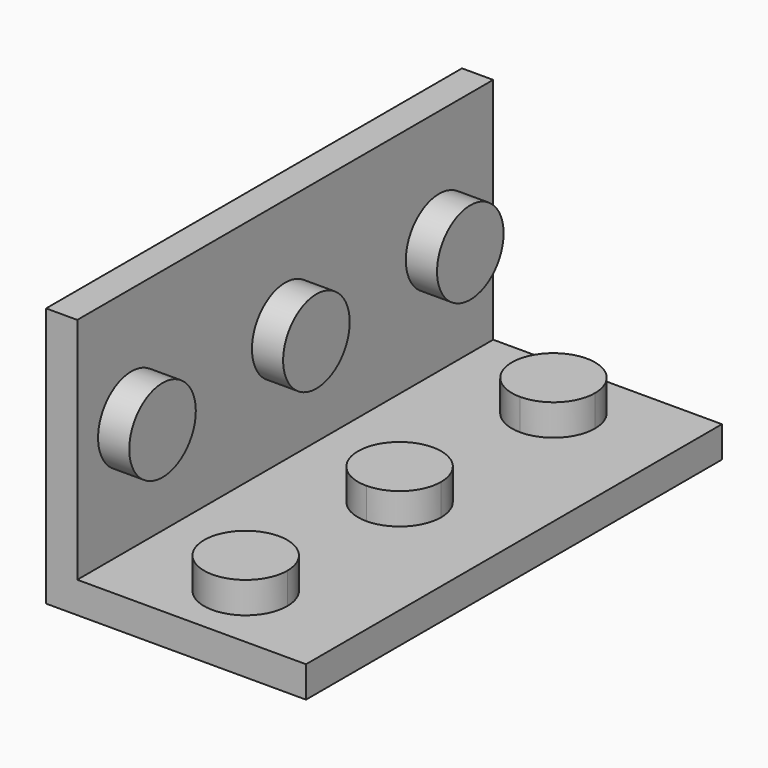
from build123d import *

# Parameters (mm, degrees)
F2_DEPTH = 50
F3_R     = 2.25
F5_R     = 2.25
F6_DEPTH = 3.001
F7_DEPTH = 3.001
F8_DEPTH = 3
F5_R_2   = 4
F9_DEPTH = 3
F3_R_2   = 4


with BuildPart() as f2:
    # F1 (on Front) → F2 (new body)
    with BuildSketch(Plane.XZ):
        Polygon((0, 25), (0, 0), (25, 0), (25, 3), (3, 3), (3, 25), align=None)
    extrude(amount=F2_DEPTH)

    # F3 (on face) + F5 (on face) → F6 (cut, through all)
    with BuildSketch(Plane.YZ.offset(3)):
        with Locations((-43.5, 14)):
            Circle(F3_R)
    with BuildSketch(Plane.YZ.offset(3)):
        with Locations((-6.5, 14)):
            Circle(F5_R)
        with Locations((-25, 14)):
            Circle(F5_R)
    extrude(amount=-F6_DEPTH, mode=Mode.SUBTRACT)

    # F4 (on face) → F7 (cut, through all)
    with BuildSketch(Plane.XY.offset(3)):
        with BuildLine():
            ThreePointArc((16.25, -43.5), (15.5909902577, -41.9090097423), (14, -41.25))
            ThreePointArc((14, -41.25), (12.4090097423, -45.0909902577), (16.25, -43.5))
        make_face()
        with BuildLine():
            ThreePointArc((16.25, -6.5), (12.4090097423, -4.9090097423), (14, -8.75))
            ThreePointArc((14, -8.75), (15.5909902577, -8.0909902577), (16.25, -6.5))
        make_face()
        with BuildLine():
            ThreePointArc((14, -22.75), (11.75, -25), (14, -27.25))
            Line((14, -27.25), (14, -25))
            Line((14, -25), (14, -22.75))
        make_face()
        with BuildLine():
            Line((14, -25), (14, -27.25))
            ThreePointArc((14, -27.25), (15.5909902577, -26.5909902577), (16.25, -25))
            ThreePointArc((16.25, -25), (15.5909902577, -23.4090097423), (14, -22.75))
            Line((14, -22.75), (14, -25))
        make_face()
    extrude(amount=-F7_DEPTH, mode=Mode.SUBTRACT)


with BuildPart() as f8:
    # F4 (on face) → F8 (new body)
    with BuildSketch(Plane.XY.offset(3)):
        with BuildLine():
            ThreePointArc((18, -6.5), (11.1715728753, -3.6715728753), (14, -10.5))
            ThreePointArc((14, -10.5), (16.8284271247, -9.3284271247), (18, -6.5))
        make_face()
        with BuildLine():
            ThreePointArc((16.25, -6.5), (15.5909902577, -8.0909902577), (14, -8.75))
            ThreePointArc((14, -8.75), (12.4090097423, -4.9090097423), (16.25, -6.5))
        make_face(mode=Mode.SUBTRACT)
        with BuildLine():
            ThreePointArc((16.25, -6.5), (12.4090097423, -4.9090097423), (14, -8.75))
            ThreePointArc((14, -8.75), (15.5909902577, -8.0909902577), (16.25, -6.5))
        make_face()
    extrude(amount=F8_DEPTH)


with BuildPart() as f8b:
    # F4 (on face) → F8, piece 2 (new body)
    with BuildSketch(Plane.XY.offset(3)):
        with BuildLine():
            Line((14, -27.25), (14, -29))
            ThreePointArc((14, -29), (16.8284271247, -27.8284271247), (18, -25))
            ThreePointArc((18, -25), (16.8284271247, -22.1715728753), (14, -21))
            Line((14, -21), (14, -22.75))
            ThreePointArc((14, -22.75), (15.5909902577, -23.4090097423), (16.25, -25))
            ThreePointArc((16.25, -25), (15.5909902577, -26.5909902577), (14, -27.25))
        make_face()
        with BuildLine():
            ThreePointArc((14, -21), (10, -25), (14, -29))
            Line((14, -29), (14, -27.25))
            ThreePointArc((14, -27.25), (11.75, -25), (14, -22.75))
            Line((14, -22.75), (14, -21))
        make_face()
        with BuildLine():
            Line((14, -25), (14, -27.25))
            ThreePointArc((14, -27.25), (15.5909902577, -26.5909902577), (16.25, -25))
            ThreePointArc((16.25, -25), (15.5909902577, -23.4090097423), (14, -22.75))
            Line((14, -22.75), (14, -25))
        make_face()
        with BuildLine():
            ThreePointArc((14, -22.75), (11.75, -25), (14, -27.25))
            Line((14, -27.25), (14, -25))
            Line((14, -25), (14, -22.75))
        make_face()
    extrude(amount=F8_DEPTH)


with BuildPart() as f8c:
    # F4 (on face) → F8, piece 3 (new body)
    with BuildSketch(Plane.XY.offset(3)):
        with BuildLine():
            ThreePointArc((18, -43.5), (16.8284271247, -40.6715728753), (14, -39.5))
            ThreePointArc((14, -39.5), (11.1715728753, -46.3284271247), (18, -43.5))
        make_face()
        with BuildLine():
            ThreePointArc((16.25, -43.5), (12.4090097423, -45.0909902577), (14, -41.25))
            ThreePointArc((14, -41.25), (15.5909902577, -41.9090097423), (16.25, -43.5))
        make_face(mode=Mode.SUBTRACT)
        with BuildLine():
            ThreePointArc((16.25, -43.5), (15.5909902577, -41.9090097423), (14, -41.25))
            ThreePointArc((14, -41.25), (12.4090097423, -45.0909902577), (16.25, -43.5))
        make_face()
    extrude(amount=F8_DEPTH)


with BuildPart() as f9:
    # F5 (on face) → F9 (new body)
    with BuildSketch(Plane.YZ.offset(3)):
        with Locations((-6.5, 14)):
            Circle(F5_R_2)
        with Locations((-6.5, 14)):
            Circle(F5_R, mode=Mode.SUBTRACT)
        with Locations((-6.5, 14)):
            Circle(F5_R)
    extrude(amount=F9_DEPTH)


with BuildPart() as f9b:
    # F5 (on face) → F9, piece 2 (new body)
    with BuildSketch(Plane.YZ.offset(3)):
        with Locations((-25, 14)):
            Circle(F5_R_2)
        with Locations((-25, 14)):
            Circle(F5_R, mode=Mode.SUBTRACT)
        with Locations((-25, 14)):
            Circle(F5_R)
    extrude(amount=F9_DEPTH)


with BuildPart() as f9c:
    # F3 (on face) → F9, piece 3 (new body)
    with BuildSketch(Plane.YZ.offset(3)):
        with Locations((-43.5, 14)):
            Circle(F3_R_2)
        with Locations((-43.5, 14)):
            Circle(F3_R, mode=Mode.SUBTRACT)
        with Locations((-43.5, 14)):
            Circle(F3_R)
    extrude(amount=F9_DEPTH)


solid = Compound([f2.part, f8.part, f8b.part, f8c.part, f9.part, f9b.part, f9c.part])
